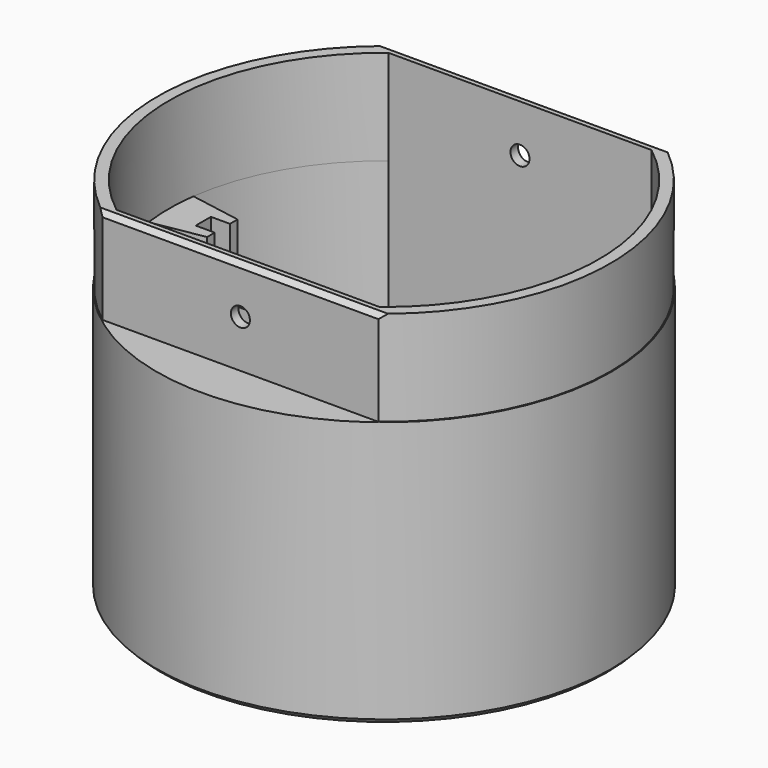
from build123d import *

# Parameters (mm, degrees)
PAD022_DEPTH    = 10
CHAMFER009_SIZE = 0.5
SKETCH040_R     = 23.9
SKETCH040_R_2   = 22.6
PAD023_DEPTH    = 24
SKETCH041_R     = 23.5
SKETCH041_W     = 20
SKETCH041_H     = 7.75
PAD024_DEPTH    = 24
SKETCH042_R     = 23.9
PAD025_DEPTH    = 4
CHAMFER010_SIZE = 0.5
SKETCH043_R     = 1.5
POCKET013_DEPTH = 15
SKETCH044_R     = 1
POCKET014_DEPTH = 100
SKETCH045_R     = 1.25
POCKET015_DEPTH = 15


with BuildPart() as part:
    # Sketch039 → Pad022 (new body)
    with BuildSketch(Plane.XY):
        with BuildLine():
            ThreePointArc((-14.5, 18.8729965824), (-23.8, 0), (-14.5, -18.8729965824))
            Line((-14.5, -18.8729965824), (14.5, -18.8729965824))
            ThreePointArc((14.5, -18.8729965824), (23.8, 0), (14.5, 18.8729965824))
            Line((-14.5, 18.8729965824), (14.5, 18.8729965824))
        make_face()
        with BuildLine():
            ThreePointArc((-13.8317024681, 17.8729965824), (-22.6, 0), (-13.8317024681, -17.8729965824))
            Line((13.8317024681, -17.8729965824), (-13.8317024681, -17.8729965824))
            ThreePointArc((13.8317024681, -17.8729965824), (22.6, 0), (13.8317024681, 17.8729965824))
            Line((-13.8317024681, 17.8729965824), (13.8317024681, 17.8729965824))
        make_face(mode=Mode.SUBTRACT)
    extrude(amount=PAD022_DEPTH)

    # Chamfer009
    chamfer009_edges = [part.edges().sort_by_distance(p)[0] for p in [
        (0, -18.872997, 10),
        (0, 18.872997, 10),
    ]]
    chamfer(chamfer009_edges, length=CHAMFER009_SIZE)

    # Sketch040 (on Face4 of Chamfer009) → Pad023 (join)
    with BuildSketch(Plane(origin=(0, 0, 0), x_dir=(1, 0, 0), z_dir=(0, 0, -1))):
        Circle(SKETCH040_R)
        Circle(SKETCH040_R_2, mode=Mode.SUBTRACT)
    extrude(amount=PAD023_DEPTH)

    # Sketch041 (on Face4 of Pad023) → Pad024 (join)
    with BuildSketch(Plane.XY):
        Circle(SKETCH041_R)
        with BuildLine():
            Line((-22.4062101037, 2.9532607047), (-17, 2))
            Line((-17, 2), (-17, 1))
            Line((-17, 1), (-19, 1))
            Line((-19, 1), (-19, -1))
            Line((-17, -1), (-19, -1))
            Line((-17, -1), (-17, -2))
            Line((-17, -2), (-22.4062101037, -2.9532607047))
            ThreePointArc((-22.4062101037, -2.9532607047), (-21.7612799705, -6.099729014), (-20.6768211618, -9.1229965824))
            Line((-20.6768211618, -9.1229965824), (20.6768211618, -9.1229965824))
            ThreePointArc((20.6768211618, -9.1229965824), (21.7612799705, -6.099729014), (22.4062101037, -2.9532607047))
            Line((17, -2), (22.4062101037, -2.9532607047))
            Line((17, -1), (17, -2))
            Line((19, -1), (17, -1))
            Line((19, 1), (19, -1))
            Line((19, 1), (17, 1))
            Line((17, 1), (17, 2))
            Line((17, 2), (22.4062101037, 2.9532607047))
            ThreePointArc((22.4062101037, 2.9532607047), (19.5945453266, 11.2611630592), (13.8317024681, 17.8729965824))
            Line((13.8317024681, 17.8729965824), (-13.8317024681, 17.8729965824))
            ThreePointArc((-13.8317024681, 17.8729965824), (-19.5945453266, 11.2611630592), (-22.4062101037, 2.9532607047))
        make_face(mode=Mode.SUBTRACT)
        with Locations((0, -13.9979965824)):
            Rectangle(SKETCH041_W, SKETCH041_H, mode=Mode.SUBTRACT)
    extrude(amount=-PAD024_DEPTH)

    # Sketch042 (on Face49 of Pad024) → Pad025 (join)
    with BuildSketch(Plane(origin=(0, 0, -24), x_dir=(1, 0, 0), z_dir=(0, 0, -1))):
        Circle(SKETCH042_R)
    extrude(amount=PAD025_DEPTH)

    # Chamfer010
    chamfer010_edges = [part.edges().sort_by_distance(p)[0] for p in [
        (-23.9, 0, -28),
    ]]
    chamfer(chamfer010_edges, length=CHAMFER010_SIZE)

    # Sketch043 (on Face4 of Chamfer010) → Pocket013 (cut)
    with BuildSketch(Plane(origin=(0, 0, -28), x_dir=(1, 0, 0), z_dir=(0, 0, -1))):
        with Locations((-16.25, 11.9990624634)):
            Circle(SKETCH043_R)
        with Locations((16.25, 11.9990624634)):
            Circle(SKETCH043_R)
        with Locations((0, -20.2)):
            Circle(SKETCH043_R)
    extrude(amount=-POCKET013_DEPTH, mode=Mode.SUBTRACT)

    # Sketch044 (on Face9 of Pocket013) → Pocket014 (cut)
    with BuildSketch(Plane.XZ.offset(18.8729965824)):
        with Locations((0, 5)):
            Circle(SKETCH044_R)
    extrude(amount=-POCKET014_DEPTH, mode=Mode.SUBTRACT)

    # Sketch045 (on Face29 of Pocket014) → Pocket015 (cut)
    with BuildSketch(Plane.XY):
        with Locations((12.5, -15)):
            Circle(SKETCH045_R)
        with Locations((-12.5, -15)):
            Circle(SKETCH045_R)
    extrude(amount=-POCKET015_DEPTH, mode=Mode.SUBTRACT)


with BuildPart() as part_1:
    # Body017 placement: moved
    add(part.part.moved(Location((0, 0, 200.3))))


solid = part_1.part
